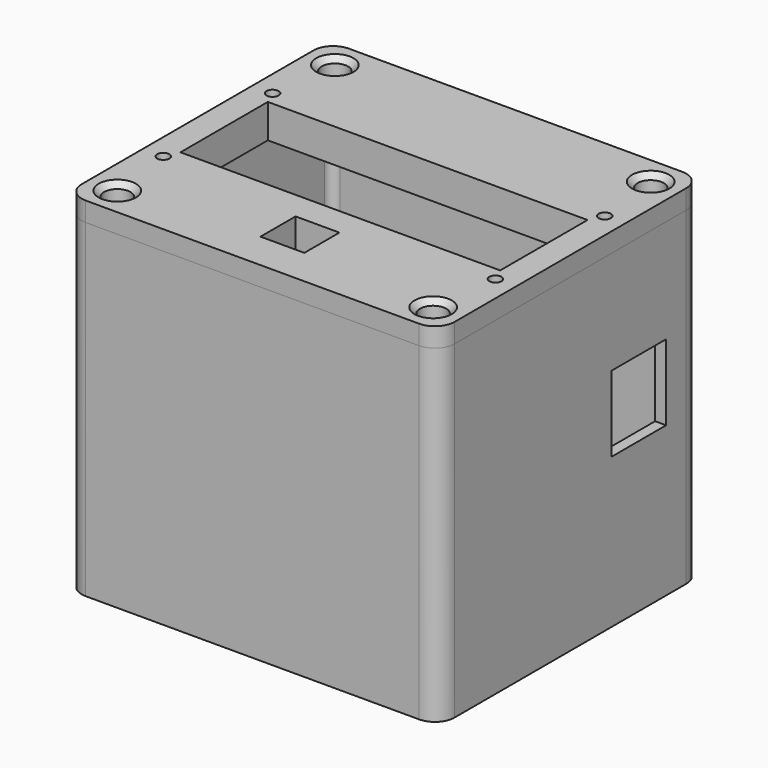
from build123d import *

# Parameters (mm, degrees)
PAD_DEPTH                     = 75
POCKET_DEPTH                  = 72.501
SKETCH003_R                   = 2
PAD001_DEPTH                  = 7
SKETCH003_MIRRORED_2_R        = 2
PAD001_MIRRORED_2_DEPTH       = 7
SKETCH010_W                   = 15.494
SKETCH010_H                   = 17.272
POCKET005_DEPTH               = 42.501
SKETCH011_R                   = 6
POCKET006_DEPTH               = 42.501
SKETCH012_R                   = 3
POCKET007_DEPTH               = 42.501
SKETCH013_R                   = 6.5
POCKET008_DEPTH               = 42.501
SKETCH014_W                   = 15
SKETCH014_H                   = 15
POCKET009_DEPTH               = 42.501
PAD002_DEPTH                  = 4.411765
PAD003_DEPTH                  = 3.3
SKETCH006_R                   = 3
POCKET001_DEPTH               = 304.152474
SKETCH006_MIRRORED002_2_R     = 3
POCKET001_MIRRORED002_2_DEPTH = 304.152474
CHAMFER_SIZE                  = 1.25
SKETCH007_W                   = 72.89
SKETCH007_H                   = 24.892
POCKET002_DEPTH               = 76.912765
SKETCH008_R                   = 1.3843
POCKET003_DEPTH               = 304.152474
SKETCH008_MIRRORED004_2_R     = 1.3843
POCKET003_MIRRORED004_2_DEPTH = 304.152474
SKETCH009_W                   = 10
SKETCH009_H                   = 10
POCKET004_DEPTH               = 76.912765


with BuildPart() as box:
    # Sketch → Pad (new body)
    with BuildSketch(Plane.XY.offset(-2.5)):
        with BuildLine():
            Line((-38, 37.5), (38, 37.5))
            ThreePointArc((42.5, 33), (41.181981, 36.181981), (38, 37.5))
            Line((42.5, 33), (42.5, -33))
            ThreePointArc((38, -37.5), (41.181981, -36.181981), (42.5, -33))
            Line((38, -37.5), (-38, -37.5))
            ThreePointArc((-42.5, -33), (-41.181981, -36.181981), (-38, -37.5))
            Line((-42.5, -33), (-42.5, 33))
            ThreePointArc((-38, 37.5), (-41.181981, 36.181981), (-42.5, 33))
        make_face()
    extrude(amount=PAD_DEPTH)

    # Sketch001 → Pocket (cut, through all)
    with BuildSketch(Plane.XY):
        with BuildLine():
            Line((-38, 35), (38, 35))
            ThreePointArc((40, 33), (39.414214, 34.414214), (38, 35))
            Line((40, 33), (40, -33))
            ThreePointArc((38, -35), (39.414214, -34.414214), (40, -33))
            Line((38, -35), (-38, -35))
            ThreePointArc((-40, -33), (-39.414214, -34.414214), (-38, -35))
            Line((-40, -33), (-40, 33))
            ThreePointArc((-38, 35), (-39.414214, 34.414214), (-40, 33))
        make_face()
    extrude(amount=POCKET_DEPTH, mode=Mode.SUBTRACT)

    # Sketch003 → Pad001 (join)
    with BuildSketch(Plane.XY.offset(62)):
        with BuildLine():
            Line((-40, 35), (-30, 35))
            ThreePointArc((-40, 25), (-32.928932, 27.928932), (-30, 35))
            Line((-40, 35), (-40, 25))
        make_face()
        with Locations((-36, 31)):
            Circle(SKETCH003_R, mode=Mode.SUBTRACT)
    pad001 = extrude(amount=PAD001_DEPTH)

    # Sketch003 Mirrored 2 → Pad001 Mirrored 2 (add)
    with BuildSketch(Plane(origin=(0, 0, 62), x_dir=(-1, 0, 0), z_dir=(0, 0, -1))):
        with BuildLine():
            Line((-40, 35), (-30, 35))
            ThreePointArc((-40, 25), (-32.928932, 27.928932), (-30, 35))
            Line((-40, 35), (-40, 25))
        make_face()
        with Locations((-36, 31)):
            Circle(SKETCH003_MIRRORED_2_R, mode=Mode.SUBTRACT)
    pad001_mirrored_2 = extrude(amount=-PAD001_MIRRORED_2_DEPTH)

    # Mirrored001: Pad001, Pad001 Mirrored 2 across Sketch003 H_Axis
    add(pad001.mirror(Plane(origin=(0, 0, 62), x_dir=(0, 0, 1), z_dir=(0, 1, 0))))
    add(pad001_mirrored_2.mirror(Plane(origin=(0, 0, 62), x_dir=(0, 0, 1), z_dir=(0, 1, 0))))

    # Sketch010 → Pocket005 (cut, through all)
    with BuildSketch(Plane.YZ):
        with Locations((19.516494, 40.298574)):
            Rectangle(SKETCH010_W, SKETCH010_H)
    extrude(amount=POCKET005_DEPTH, mode=Mode.SUBTRACT)

    # Sketch011 → Pocket006 (cut, through all)
    with BuildSketch(Plane.YZ):
        with Locations((-19.882775, 16.019607)):
            Circle(SKETCH011_R)
    extrude(amount=-POCKET006_DEPTH, mode=Mode.SUBTRACT)

    # Sketch012 → Pocket007 (cut, through all)
    with BuildSketch(Plane.YZ):
        with Locations((-2.87164, 20.98372)):
            Circle(SKETCH012_R)
    extrude(amount=-POCKET007_DEPTH, mode=Mode.SUBTRACT)

    # Sketch013 → Pocket008 (cut, through all)
    with BuildSketch(Plane.YZ):
        with Locations((13.798587, 27.5)):
            Circle(SKETCH013_R)
    extrude(amount=-POCKET008_DEPTH, mode=Mode.SUBTRACT)

    # Sketch014 → Pocket009 (cut, through all)
    with BuildSketch(Plane.YZ):
        with Locations((13.79164, 7.5)):
            Rectangle(SKETCH014_W, SKETCH014_H)
    extrude(amount=-POCKET009_DEPTH, mode=Mode.SUBTRACT)


with BuildPart() as lid:
    # Sketch004 → Pad002 (new body)
    with BuildSketch(Plane.XY.offset(72.5)):
        with BuildLine():
            Line((-38, 37.5), (38, 37.5))
            ThreePointArc((42.5, 33), (41.181981, 36.181981), (38, 37.5))
            Line((42.5, 33), (42.5, -33))
            ThreePointArc((38, -37.5), (41.181981, -36.181981), (42.5, -33))
            Line((38, -37.5), (-38, -37.5))
            ThreePointArc((-42.5, -33), (-41.181981, -36.181981), (-38, -37.5))
            Line((-42.5, -33), (-42.5, 33))
            ThreePointArc((-38, 37.5), (-41.181981, 36.181981), (-42.5, 33))
        make_face()
    extrude(amount=PAD002_DEPTH)

    # Sketch005 → Pad003 (join)
    with BuildSketch(Plane.XY.offset(72.5)):
        with BuildLine():
            Line((-37.8, 34.8), (37.8, 34.8))
            ThreePointArc((39.8, 32.8), (39.214214, 34.214214), (37.8, 34.8))
            Line((39.8, 32.8), (39.8, -32.8))
            ThreePointArc((37.8, -34.8), (39.214214, -34.214214), (39.8, -32.8))
            Line((37.8, -34.8), (-37.8, -34.8))
            ThreePointArc((-39.8, -32.8), (-39.214214, -34.214214), (-37.8, -34.8))
            Line((-39.8, -32.8), (-39.8, 32.8))
            ThreePointArc((-37.8, 34.8), (-39.214214, 34.214214), (-39.8, 32.8))
        make_face()
    extrude(amount=-PAD003_DEPTH)

    # Sketch006 → Pocket001 (cut, through all)
    with BuildSketch(Plane.XY):
        with Locations((-36, 31)):
            Circle(SKETCH006_R)
    pocket001 = extrude(amount=POCKET001_DEPTH, mode=Mode.SUBTRACT)

    # Sketch006 Mirrored002 2 → Pocket001 Mirrored002 2 (cut, through all)
    with BuildSketch(Plane(origin=(0, 0, 0), x_dir=(1, 0, 0), z_dir=(0, 0, -1))):
        with Locations((-36, 31)):
            Circle(SKETCH006_MIRRORED002_2_R)
    pocket001_mirrored002_2 = extrude(amount=-POCKET001_MIRRORED002_2_DEPTH, mode=Mode.SUBTRACT)

    # Mirrored003: Pocket001, Pocket001 Mirrored002 2 across YZ
    add(pocket001.mirror(Plane.YZ), mode=Mode.SUBTRACT)
    add(pocket001_mirrored002_2.mirror(Plane.YZ), mode=Mode.SUBTRACT)

    # Chamfer
    chamfer_edges = [lid.edges().sort_by_distance(p)[0] for p in [
        (-39, -31, 76.911765),
        (-39, 31, 76.911765),
        (39, 31, 76.911765),
        (39, -31, 76.911765),
    ]]
    chamfer(chamfer_edges, length=CHAMFER_SIZE)

    # Sketch007 → Pocket002 (cut, through all)
    with BuildSketch(Plane.XY):
        Rectangle(SKETCH007_W, SKETCH007_H)
    extrude(amount=POCKET002_DEPTH, mode=Mode.SUBTRACT)

    # Sketch008 → Pocket003 (cut, through all)
    with BuildSketch(Plane.XY):
        with Locations((-37.8587, 15.5702)):
            Circle(SKETCH008_R)
    pocket003 = extrude(amount=POCKET003_DEPTH, mode=Mode.SUBTRACT)

    # Sketch008 Mirrored004 2 → Pocket003 Mirrored004 2 (cut, through all)
    with BuildSketch(Plane(origin=(0, 0, 0), x_dir=(1, 0, 0), z_dir=(0, 0, -1))):
        with Locations((-37.8587, 15.5702)):
            Circle(SKETCH008_MIRRORED004_2_R)
    pocket003_mirrored004_2 = extrude(amount=-POCKET003_MIRRORED004_2_DEPTH, mode=Mode.SUBTRACT)

    # Mirrored005: Pocket003, Pocket003 Mirrored004 2 across YZ
    add(pocket003.mirror(Plane.YZ), mode=Mode.SUBTRACT)
    add(pocket003_mirrored004_2.mirror(Plane.YZ), mode=Mode.SUBTRACT)

    # Sketch009 → Pocket004 (cut, through all)
    with BuildSketch(Plane.XY):
        with Locations((-0.009315, -23.939146)):
            Rectangle(SKETCH009_W, SKETCH009_H)
    extrude(amount=POCKET004_DEPTH, mode=Mode.SUBTRACT)


solid = Compound([box.part, lid.part])
